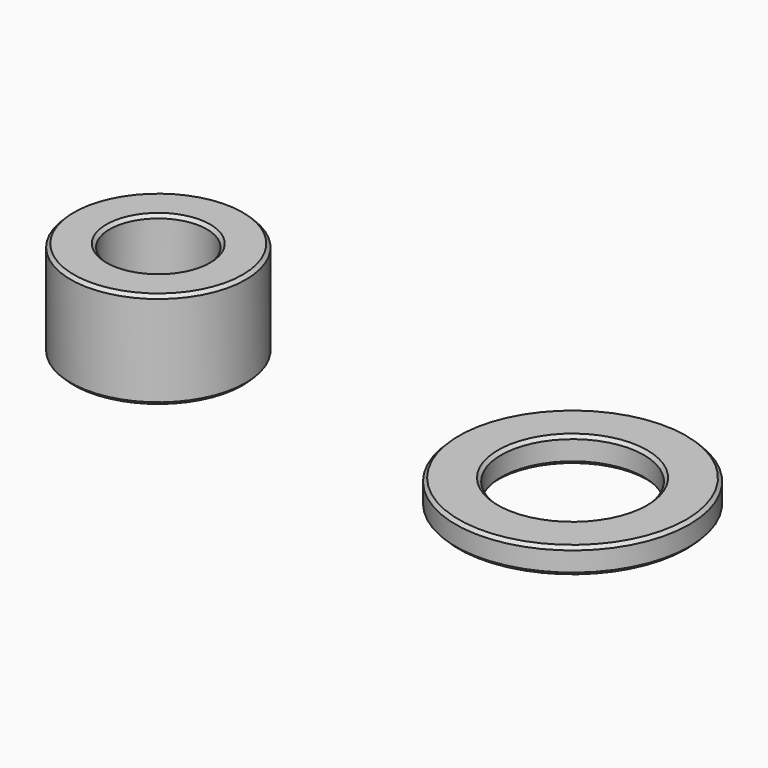
from build123d import *

# Parameters (mm, degrees)
F0_R      = 6.75
F0_R_2    = 3.75
F1_DEPTH  = 7.5
F2_R      = 9
F2_R_2    = 5.5
F3_DEPTH  = 2
F4_SIZE   = 0.25
F4_2_SIZE = 0.25


with BuildPart() as f1:
    # F0 (on Top) → F1 (new body)
    with BuildSketch(Plane.XY):
        Circle(F0_R)
        Circle(F0_R_2, mode=Mode.SUBTRACT)
    extrude(amount=F1_DEPTH)

    # F4
    f4_edges = [f1.edges().sort_by_distance(p)[0] for p in [
        (-6.75, 0, 7.5),
        (-3.75, 0, 7.5),
        (-6.75, 0, 0),
        (-3.75, 0, 0),
    ]]
    chamfer(f4_edges, length=F4_SIZE)


with BuildPart() as f3:
    # F2 (on Top) → F3 (new body)
    with BuildSketch(Plane.XY):
        with Locations((31.909617, 0)):
            Circle(F2_R)
        with Locations((31.909617, 0)):
            Circle(F2_R_2, mode=Mode.SUBTRACT)
    extrude(amount=F3_DEPTH)

    # F4#2
    f4_2_edges = [f3.edges().sort_by_distance(p)[0] for p in [
        (22.909617, 0, 2),
        (26.409617, 0, 2),
        (26.409617, 0, 0),
        (22.909617, 0, 0),
    ]]
    chamfer(f4_2_edges, length=F4_2_SIZE)


solid = Compound([f1.part, f3.part])
